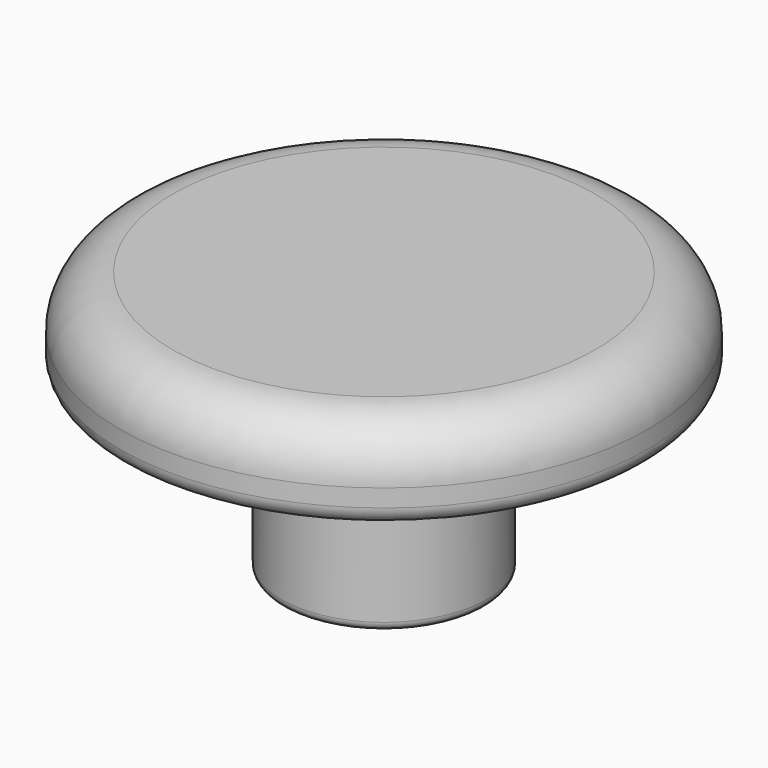
from build123d import *


with BuildPart() as f1:
    # F0 (on Right) → F1 (revolve)
    with BuildSketch(Plane.YZ):
        with BuildLine():
            Line((0, 30), (0, 0))
            Line((0, 0), (10.65, 0))
            ThreePointArc((10.65, 0), (11.357107, 0.292893), (11.65, 1))
            Line((11.65, 1), (11.65, 20))
            Line((11.65, 20), (28, 20))
            ThreePointArc((28, 20), (29.414214, 20.585786), (30, 22))
            Line((30, 22), (30, 24))
            ThreePointArc((30, 24), (28.242641, 28.242641), (24, 30))
            Line((24, 30), (0, 30))
        make_face()
    revolve(axis=Axis((0, 0, 15), (0, 0, 1)))


solid = f1.part
